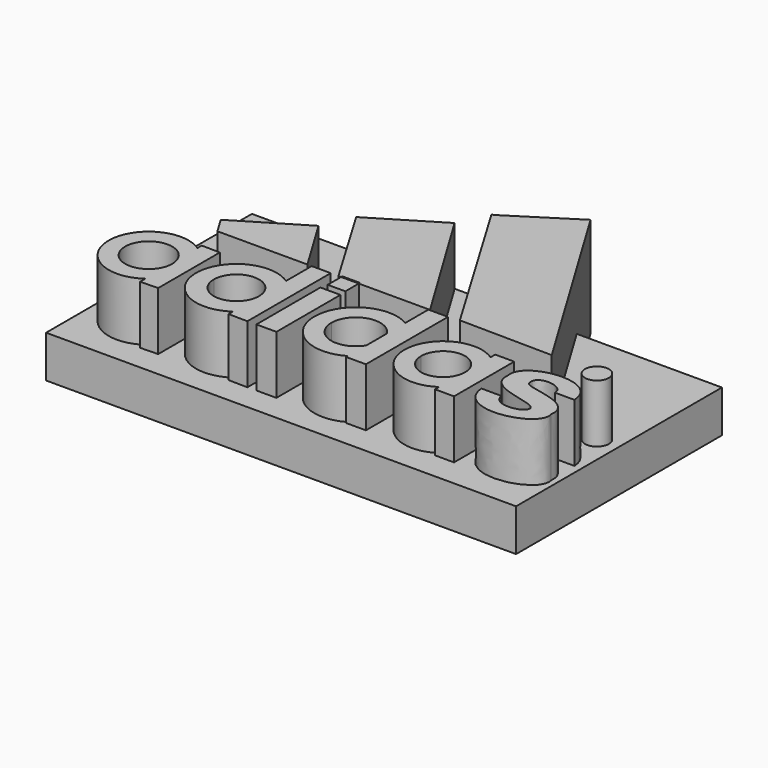
from build123d import *

# Parameters (mm, degrees)
F1_DEPTH = 25.4
F0_W     = 4.473424051
F0_H     = 4.2551801307
F0_R     = 3.0313387654
F2_W     = 119.0674714744
F2_H     = 65.1902165264
F3_DEPTH = 10.668


with BuildPart() as f1:
    # F0 (on Top) → F1 (new body)
    with BuildSketch(Plane.XY):
        with BuildLine():
            Line((-30.875317251, -13.699053923), (-31.0177251155, -13.6989738783))
            ThreePointArc((-31.0177251155, -13.6989738783), (-32.1733780362, -18.3901533475), (-35.3717890416, -22.0113224302))
            Line((-35.3717890416, -22.0113224302), (-35.3570654375, -23.6492129693))
            Line((-35.3570654375, -23.6492129693), (-30.875317251, -23.516735062))
            Line((-30.875317251, -23.516735062), (-30.875317251, -13.699053923))
        make_face()
        with BuildLine():
            Line((-35.4626304443, -11.9058976395), (-35.5222570014, -5.2728903326))
            ThreePointArc((-35.5222570014, -5.2728903326), (-51.2622202285, -13.7842750411), (-35.3717890416, -22.0113224302))
            Line((-35.3717890416, -22.0113224302), (-35.4314155987, -15.3783151233))
            ThreePointArc((-35.4314155987, -15.3783151233), (-47.0921857379, -13.7467890581), (-35.4626304443, -11.9058976395))
        make_face()
        with BuildLine():
            ThreePointArc((-31.0177251155, -13.6989738783), (-31.0177239162, -13.6961290609), (-31.0177235164, -13.6932842433))
            ThreePointArc((-31.0177235164, -13.6932842433), (-32.2146182443, -8.9185105437), (-35.5222570014, -5.2728903326))
            Line((-35.5222570014, -5.2728903326), (-35.4626304443, -11.9058976395))
            ThreePointArc((-35.4626304443, -11.9058976395), (-35.2570033033, -12.7890977121), (-35.1879264914, -13.6932842433))
            ThreePointArc((-35.1879264914, -13.6932842433), (-35.1879267264, -13.6949570657), (-35.1879274316, -13.6966298879))
            Line((-35.1879274316, -13.6966298879), (-31.0177251155, -13.6989738783))
        make_face()
        with BuildLine():
            ThreePointArc((-35.3717890416, -22.0113224302), (-32.1733780362, -18.3901533475), (-31.0177251155, -13.6989738783))
            Line((-31.0177251155, -13.6989738783), (-35.1879274316, -13.6966298879))
            ThreePointArc((-35.1879274316, -13.6966298879), (-35.2493527288, -14.5462059537), (-35.4314155987, -15.3783151233))
            Line((-35.4314155987, -15.3783151233), (-35.3717890416, -22.0113224302))
        make_face()
        with BuildLine():
            ThreePointArc((-35.5222570014, -5.2728903326), (-32.2146182443, -8.9185105437), (-31.0177235164, -13.6932842433))
            ThreePointArc((-31.0177235164, -13.6932842433), (-31.0177239162, -13.6961290609), (-31.0177251155, -13.6989738783))
            Line((-31.0177251155, -13.6989738783), (-30.875317251, -13.699053923))
            Line((-30.875317251, -13.699053923), (-30.875317251, -3.9986177819))
            Line((-30.875317251, -3.9986177819), (-35.5344340205, -3.9182882756))
            Line((-35.5344340205, -3.9182882756), (-35.5222570014, -5.2728903326))
        make_face()
    extrude(amount=F1_DEPTH)


with BuildPart() as f1b:
    # F0 (on Top) → F1, piece 2 (new body)
    with BuildSketch(Plane.XY):
        with BuildLine():
            Line((-24.5842620734, -13.702590004), (-29.0749657689, -13.7000658659))
            ThreePointArc((-29.0749657689, -13.7000658659), (-23.6185065316, -22.7980408662), (-13.0294393748, -22.1517025158))
            Line((-13.0294393748, -22.1517025158), (-13.0294393748, -13.7090847474))
            Line((-13.0294393748, -13.7090847474), (-13.1279232852, -13.7090293915))
            ThreePointArc((-13.1279232852, -13.7090293915), (-13.1277751463, -13.7328141294), (-13.1277257663, -13.7565992773))
            ThreePointArc((-13.1277257663, -13.7565992773), (-18.8831261638, -19.4849310841), (-24.5842620734, -13.702590004))
        make_face()
        with BuildLine():
            Line((-13.0294393748, -13.7090847474), (-13.0294393748, -22.1517025158))
            ThreePointArc((-13.0294393748, -22.1517025158), (-9.8015409773, -18.4939567995), (-8.6371203075, -13.7565992773))
            ThreePointArc((-8.6371203075, -13.7565992773), (-8.6371451281, -13.7340763487), (-8.6372195897, -13.7115535296))
            Line((-8.6372195897, -13.7115535296), (-13.0294393748, -13.7090847474))
        make_face()
        with BuildLine():
            ThreePointArc((-8.6371203075, -13.7565992773), (-9.8015409773, -18.4939567995), (-13.0294393748, -22.1517025158))
            Line((-13.0294393748, -22.1517025158), (-13.0294393748, -23.516735062))
            Line((-13.0294393748, -23.516735062), (-8.2128718495, -23.5997792333))
            Line((-8.2128718495, -23.5997792333), (-8.2128718495, -13.7117920473))
            Line((-8.2128718495, -13.7117920473), (-8.6372195897, -13.7115535296))
            ThreePointArc((-8.6372195897, -13.7115535296), (-8.6371451281, -13.7340763487), (-8.6371203075, -13.7565992773))
        make_face()
        with BuildLine():
            Line((-13.0294393748, 2.802018309), (-13.0294393748, -5.3614960387))
            ThreePointArc((-13.0294393748, -5.3614960387), (-9.8120042218, -8.9992967446), (-8.6372195897, -13.7115535296))
            Line((-8.6372195897, -13.7115535296), (-8.2128718495, -13.7117920473))
            Line((-8.2128718495, -13.7117920473), (-8.2128718495, 2.802018309))
            Line((-8.2128718495, 2.802018309), (-13.0294393748, 2.802018309))
        make_face()
        with BuildLine():
            ThreePointArc((-13.0294393748, -5.3614960387), (-23.5684147201, -4.6889496462), (-29.0749657689, -13.7000658659))
            Line((-29.0749657689, -13.7000658659), (-24.5842620734, -13.702590004))
            ThreePointArc((-24.5842620734, -13.702590004), (-18.8529014068, -8.0282047213), (-13.1279232852, -13.7090293915))
            Line((-13.1279232852, -13.7090293915), (-13.0294393748, -13.7090847474))
            Line((-13.0294393748, -13.7090847474), (-13.0294393748, -5.3614960387))
        make_face()
        with BuildLine():
            ThreePointArc((-8.6372195897, -13.7115535296), (-9.8120042218, -8.9992967446), (-13.0294393748, -5.3614960387))
            Line((-13.0294393748, -5.3614960387), (-13.0294393748, -13.7090847474))
            Line((-13.0294393748, -13.7090847474), (-8.6372195897, -13.7115535296))
        make_face()
    extrude(amount=F1_DEPTH)


with BuildPart() as f1c:
    # F0 (on Top) → F1, piece 3 (new body)
    with BuildSketch(Plane.XY):
        Polygon((-0.8936892846, -13.7159060189), (-5.964865908, -13.7130556082), (-5.964865908, -23.5547516495), (-0.8936892846, -23.5547516495), align=None)
        Polygon((-5.964865908, -3.284655977), (-5.964865908, -13.7130556082), (-0.8936892846, -13.7159060189), (-0.8936892846, -3.284655977), align=None)
    extrude(amount=F1_DEPTH)


with BuildPart() as f1d:
    # F0 (on Top) → F1, piece 4 (new body)
    with BuildSketch(Plane.XY):
        with Locations((-3.3306546975, 0.6502897595)):
            Rectangle(F0_W, F0_H)
    extrude(amount=F1_DEPTH)


with BuildPart() as f1e:
    # F0 (on Top) → F1, piece 5 (new body)
    with BuildSketch(Plane.XY):
        with BuildLine():
            ThreePointArc((16.6340731084, -4.6322608663), (6.1260749403, -4.6206090368), (0.8653004574, -13.7168947132))
            Line((0.8653004574, -13.7168947132), (5.1734727752, -13.7193162539))
            ThreePointArc((5.1734727752, -13.7193162539), (9.6719832069, -7.7634713647), (16.6340731084, -10.4538223921))
            Line((16.6340731084, -10.4538223921), (16.6340731084, -4.6322608663))
        make_face()
        with BuildLine():
            Line((5.1734727752, -13.7193162539), (0.8653004574, -13.7168947132))
            ThreePointArc((0.8653004574, -13.7168947132), (6.1209596036, -22.8220404146), (16.6340731084, -22.8133375248))
            Line((16.6340731084, -22.8133375248), (16.6340731084, -16.991775999))
            ThreePointArc((16.6340731084, -16.991775999), (9.6686338522, -19.6811716696), (5.1734727752, -13.7193162539))
        make_face()
        with BuildLine():
            Line((16.6340731084, -16.991775999), (16.6340731084, -22.8133375248))
            ThreePointArc((16.6340731084, -22.8133375248), (19.8267542843, -19.9542982046), (21.6118209064, -16.0580363962))
            Line((21.6118209064, -16.0580363962), (21.6118209064, -13.7285559329))
            Line((21.6118209064, -13.7285559329), (17.5665022046, -13.7262821372))
            ThreePointArc((17.5665022046, -13.7262821372), (17.328359964, -15.4241528333), (16.6340731084, -16.991775999))
        make_face()
        with BuildLine():
            ThreePointArc((21.6118209064, -11.3875619949), (19.8267542843, -7.4913001865), (16.6340731084, -4.6322608663))
            Line((16.6340731084, -4.6322608663), (16.6340731084, -10.4538223921))
            ThreePointArc((16.6340731084, -10.4538223921), (17.3288378777, -12.023120168), (17.5665031835, -13.7227991955))
            ThreePointArc((17.5665031835, -13.7227991955), (17.5665029388, -13.7245406664), (17.5665022046, -13.7262821372))
            Line((17.5665022046, -13.7262821372), (21.6118209064, -13.7285559329))
            Line((21.6118209064, -13.7285559329), (21.6118209064, -11.3875619949))
        make_face()
        with BuildLine():
            Line((16.6340731084, 2.6597355027), (16.6340731084, -4.6322608663))
            ThreePointArc((16.6340731084, -4.6322608663), (19.8267542843, -7.4913001865), (21.6118209064, -11.3875619949))
            Line((21.6118209064, -11.3875619949), (21.6118209064, 2.6597355027))
            Line((21.6118209064, 2.6597355027), (16.6340731084, 2.6597355027))
        make_face()
        with BuildLine():
            ThreePointArc((21.6118209064, -16.0580363962), (19.8267542843, -19.9542982046), (16.6340731084, -22.8133375248))
            Line((16.6340731084, -22.8133375248), (16.6340731084, -23.3473740518))
            Line((16.6340731084, -23.3473740518), (21.6118209064, -23.3473740518))
            Line((21.6118209064, -23.3473740518), (21.6118209064, -16.0580363962))
        make_face()
        with BuildLine():
            ThreePointArc((17.5665031835, -13.7227991955), (17.3288378777, -12.023120168), (16.6340731084, -10.4538223921))
            Line((16.6340731084, -10.4538223921), (16.6340731084, -13.7257580367))
            Line((16.6340731084, -13.7257580367), (17.5665022046, -13.7262821372))
            ThreePointArc((17.5665022046, -13.7262821372), (17.5665029388, -13.7245406664), (17.5665031835, -13.7227991955))
        make_face()
        with BuildLine():
            Line((16.6340731084, -13.7257580367), (16.6340731084, -16.991775999))
            ThreePointArc((16.6340731084, -16.991775999), (17.328359964, -15.4241528333), (17.5665022046, -13.7262821372))
            Line((17.5665022046, -13.7262821372), (16.6340731084, -13.7257580367))
        make_face()
    extrude(amount=F1_DEPTH)


with BuildPart() as f1f:
    # F0 (on Top) → F1, piece 6 (new body)
    with BuildSketch(Plane.XY):
        with BuildLine():
            ThreePointArc((39.0011928976, -5.6130481669), (28.9056141111, -5.0753107132), (23.6796114621, -13.7297181982))
            Line((23.6796114621, -13.7297181982), (27.9388281247, -13.7321122219))
            ThreePointArc((27.9388281247, -13.7321122219), (33.0750170948, -8.2080673953), (39.0011928976, -12.8745380892))
            Line((39.0011928976, -12.8745380892), (39.0011928976, -5.6130481669))
        make_face()
        with BuildLine():
            ThreePointArc((43.3309135445, -13.7407638168), (42.1772074459, -9.1382533724), (39.0011928976, -5.6130481669))
            Line((39.0011928976, -5.6130481669), (39.0011928976, -12.8745380892))
            ThreePointArc((39.0011928976, -12.8745380892), (39.0532828228, -13.3050796672), (39.0716968819, -13.7383697931))
            Line((39.0716968819, -13.7383697931), (43.3309135445, -13.7407638168))
        make_face()
        with BuildLine():
            Line((39.0011928976, -14.6412569927), (39.0011928976, -21.9027469149))
            ThreePointArc((39.0011928976, -21.9027469149), (42.1812319499, -18.3699790007), (43.3309284831, -13.7578975409))
            ThreePointArc((43.3309284831, -13.7578975409), (43.3309247484, -13.7493306756), (43.3309135445, -13.7407638168))
            Line((43.3309135445, -13.7407638168), (39.0716968819, -13.7383697931))
            ThreePointArc((39.0716968819, -13.7383697931), (39.0717225714, -13.748133652), (39.0717311346, -13.7578975409))
            ThreePointArc((39.0717311346, -13.7578975409), (39.0540685534, -14.2009831884), (39.0011928976, -14.6412569927))
        make_face()
        with BuildLine():
            Line((27.9388281247, -13.7321122219), (23.6796114621, -13.7297181982))
            ThreePointArc((23.6796114621, -13.7297181982), (28.8807319901, -22.4272572358), (39.0011928976, -21.9027469149))
            Line((39.0011928976, -21.9027469149), (39.0011928976, -14.6412569927))
            ThreePointArc((39.0011928976, -14.6412569927), (33.0493135242, -19.3056751987), (27.9388281247, -13.7321122219))
        make_face()
        with BuildLine():
            ThreePointArc((43.3309284831, -13.7578975409), (42.1812319499, -18.3699790007), (39.0011928976, -21.9027469149))
            Line((39.0011928976, -21.9027469149), (39.0011928976, -23.1816917658))
            Line((39.0011928976, -23.1816917658), (43.8059829175, -23.1816917658))
            Line((43.8059829175, -23.1816917658), (43.8059829175, -13.7410308441))
            Line((43.8059829175, -13.7410308441), (43.3309135445, -13.7407638168))
            ThreePointArc((43.3309135445, -13.7407638168), (43.3309247484, -13.7493306756), (43.3309284831, -13.7578975409))
        make_face()
        with BuildLine():
            Line((39.0011928976, -4.1282181628), (39.0011928976, -5.6130481669))
            ThreePointArc((39.0011928976, -5.6130481669), (42.1772074459, -9.1382533724), (43.3309135445, -13.7407638168))
            Line((43.3309135445, -13.7407638168), (43.8059829175, -13.7410308441))
            Line((43.8059829175, -13.7410308441), (43.8059829175, -4.1282181628))
            Line((43.8059829175, -4.1282181628), (39.0011928976, -4.1282181628))
        make_face()
    extrude(amount=F1_DEPTH)


with BuildPart() as f1g:
    # F0 (on Top) → F1, piece 7 (new body)
    with BuildSketch(Plane.XY):
        with BuildLine():
            Line((62.5903514688, -13.7515891761), (48.7155546756, -13.7437904199))
            add(Edge.make_bspline(
                [(48.7155546756, -13.7437904199), (52.2539287746, -15.9984560349), (58.83547103, -15.8805297751), (58.8002084507, -17.9962712332)],
                knots=[4.2459284241, 4.2459284241, 4.2459284241, 4.2459284241, 14.8523937837, 14.8523937837, 14.8523937837, 14.8523937837], degree=3))
            add(Edge.make_bspline(
                [(58.8002084507, -17.9962712332), (58.6354872896, -20.2663625582), (51.3803586364, -21.1450262918), (51.0723768715, -17.1813930312)],
                knots=[0, 0, 0, 0, 7.7706761224, 7.7706761224, 7.7706761224, 7.7706761224], degree=3))
            Line((51.0723768715, -17.1813930312), (45.9241895689, -17.1813930312))
            add(Edge.make_bspline(
                [(45.9241895689, -17.1813930312), (46.9962880015, -27.6155285537), (65.3172880411, -23.4463252127), (63.6168662162, -17.1813930312)],
                knots=[0, 0, 0, 0, 17.6926766473, 17.6926766473, 17.6926766473, 17.6926766473], degree=3))
            add(Edge.make_bspline(
                [(63.6168662162, -17.1813930312), (63.8051585342, -15.7024980497), (63.378604204, -14.5970641726), (62.5903514688, -13.7515891761)],
                knots=[0, 0, 0, 0, 3.0019762863, 3.0019762863, 3.0019762863, 3.0019762863], degree=3))
        make_face()
        with BuildLine():
            add(Edge.make_bspline(
                [(46.5488844162, -9.5999231873), (46.370299762, -11.5584239085), (47.2990900332, -12.8412136898), (48.7155546756, -13.7437904199)],
                knots=[0, 0, 0, 0, 4.2459284241, 4.2459284241, 4.2459284241, 4.2459284241], degree=3))
            Line((48.7155546756, -13.7437904199), (62.5903514688, -13.7515891761))
            add(Edge.make_bspline(
                [(62.5903514688, -13.7515891761), (59.6420466387, -10.5892556947), (51.6336267896, -11.0637141312), (51.8114231527, -9.2358039692)],
                knots=[3.0019762863, 3.0019762863, 3.0019762863, 3.0019762863, 14.2302800909, 14.2302800909, 14.2302800909, 14.2302800909], degree=3))
            add(Edge.make_bspline(
                [(51.8114231527, -9.2358039692), (51.0035604239, -5.6494511664), (58.5198700428, -6.1337624211), (58.4024265409, -9.480868699)],
                knots=[0, 0, 0, 0, 6.5955577766, 6.5955577766, 6.5955577766, 6.5955577766], degree=3))
            Line((58.4024265409, -9.480868699), (63.3141994476, -9.480868699))
            Line((63.3141994476, -9.480868699), (63.3141994476, -9.2306856532))
            add(Edge.make_bspline(
                [(63.3141994476, -9.2306856532), (62.7086202266, -0.0776128052), (45.1093754484, -2.6099037836), (46.5488844162, -9.5999231873)],
                knots=[0, 0, 0, 0, 16.7693805628, 16.7693805628, 16.7693805628, 16.7693805628], degree=3))
        make_face()
    extrude(amount=F1_DEPTH)


with BuildPart() as f1h:
    # F0 (on Top) → F1, piece 8 (new body)
    with BuildSketch(Plane.XY):
        Polygon((-2.4973251857, 34.8738506436), (-19.2859862, 24.7018970549), (-6.2500843778, 2.7778798249), (-5.567366723, 2.7778798249), (-5.567366723, 3.161806846), (-1.093942672, 3.161806846), (-1.093942672, 2.7778798249), (16.9577691704, 2.7778798249), align=None)
    extrude(amount=F1_DEPTH)


with BuildPart() as f1i:
    # F0 (on Top) → F1, piece 9 (new body)
    with BuildSketch(Plane.XY):
        Polygon((-22.7670799941, 17.1054359525), (-39.4844524562, 7.0657432079), (-36.9369983673, 2.802018309), (-14.1305355355, 2.802018309), align=None)
    extrude(amount=F1_DEPTH)


with BuildPart() as f1j:
    # F0 (on Top) → F1, piece 10 (new body)
    with BuildSketch(Plane.XY):
        with Locations((59.7664937377, 2.1260231733)):
            Circle(F0_R)
        with BuildLine():
            Line((59.1067112982, 0.3426910553), (58.5428886116, 0.3488712537))
            Line((58.5428886116, 0.3488712537), (58.5428886116, 3.4539313658))
            add(Edge.make_bspline(
                [(58.5428886116, 3.4539313658), (58.7973896157, 3.347181031), (61.3144424979, 3.9975331091), (61.0991145337, 2.5561019436)],
                knots=[0.2582213588, 0.2582213588, 0.2582213588, 0.2582213588, 2.7303052016, 2.7303052016, 2.7303052016, 2.7303052016], degree=3))
            add(Edge.make_bspline(
                [(61.0991145337, 2.5561019436), (61.059884727, 2.2975115571), (60.7758825016, 1.8209142523), (60.3246130049, 1.7162117874)],
                knots=[0, 0, 0, 0, 1.1424833007, 1.1424833007, 1.1424833007, 1.1424833007], degree=3))
            Line((60.3246130049, 1.7162117874), (61.3395310938, 0.3629892599))
            Line((61.3395310938, 0.3629892599), (60.6223233044, 0.3629892599))
            Line((60.6223233044, 0.3629892599), (59.8442181945, 1.5673573362))
            Line((59.8442181945, 1.5673573362), (59.1067112982, 1.5673573362))
            Line((59.1067112982, 1.5673573362), (59.1067112982, 0.3426910553))
        make_face(mode=Mode.SUBTRACT)
        with BuildLine():
            Line((58.5428886116, 3.5154118668), (58.5428886116, 3.4539313658))
            add(Edge.make_bspline(
                [(58.5428886116, 3.5154118668), (58.5144071665, 3.4844931829), (58.5163047255, 3.4650819651), (58.5428886116, 3.4539313658)],
                knots=[0, 0, 0, 0, 0.2582213588, 0.2582213588, 0.2582213588, 0.2582213588], degree=3))
        make_face(mode=Mode.SUBTRACT)
        with BuildLine():
            Line((58.5428886116, 3.4539313658), (58.5428886116, 0.3488712537))
            Line((58.5428886116, 0.3488712537), (59.1067112982, 0.3426910553))
            Line((59.1067112982, 0.3426910553), (59.1067112982, 1.5673573362))
            Line((59.1067112982, 1.5673573362), (59.8442181945, 1.5673573362))
            Line((59.8442181945, 1.5673573362), (60.6223233044, 0.3629892599))
            Line((60.6223233044, 0.3629892599), (61.3395310938, 0.3629892599))
            Line((61.3395310938, 0.3629892599), (60.3246130049, 1.7162117874))
            add(Edge.make_bspline(
                [(61.0991145337, 2.5561019436), (61.059884727, 2.2975115571), (60.7758825016, 1.8209142523), (60.3246130049, 1.7162117874)],
                knots=[0, 0, 0, 0, 1.1424833007, 1.1424833007, 1.1424833007, 1.1424833007], degree=3))
            add(Edge.make_bspline(
                [(58.5428886116, 3.4539313658), (58.7973896157, 3.347181031), (61.3144424979, 3.9975331091), (61.0991145337, 2.5561019436)],
                knots=[0.2582213588, 0.2582213588, 0.2582213588, 0.2582213588, 2.7303052016, 2.7303052016, 2.7303052016, 2.7303052016], degree=3))
        make_face()
        with BuildLine():
            Line((59.1757521033, 2.2975115571), (59.1757521033, 2.9670482036))
            Line((59.1757521033, 2.9670482036), (60.2137260139, 2.9750945978))
            add(Edge.make_bspline(
                [(60.2137260139, 2.2975115571), (60.4953467846, 2.3555287626), (60.5999454856, 2.8383072931), (60.2137260139, 2.9750945978)],
                knots=[0, 0, 0, 0, 0.6775830407, 0.6775830407, 0.6775830407, 0.6775830407], degree=3))
            Line((60.2137260139, 2.2975115571), (59.1757521033, 2.2975115571))
        make_face(mode=Mode.SUBTRACT)
        with BuildLine():
            Line((60.2137260139, 2.9750945978), (59.1757521033, 2.9670482036))
            Line((59.1757521033, 2.9670482036), (59.1757521033, 2.2975115571))
            Line((59.1757521033, 2.2975115571), (60.2137260139, 2.2975115571))
            add(Edge.make_bspline(
                [(60.2137260139, 2.2975115571), (60.4953467846, 2.3555287626), (60.5999454856, 2.8383072931), (60.2137260139, 2.9750945978)],
                knots=[0, 0, 0, 0, 0.6775830407, 0.6775830407, 0.6775830407, 0.6775830407], degree=3))
        make_face()
    extrude(amount=F1_DEPTH)


with BuildPart() as f1k:
    # F0 (on Top) → F1, piece 11 (new body)
    with BuildSketch(Plane.XY):
        Polygon((1.354191103, 42.3793680966), (0.8604074246, 42.3793680966), (24.3645310402, 2.9753935523), (47.8686578572, 2.6791228447), (17.6490694284, 52.7488365769), align=None)
    extrude(amount=F1_DEPTH)


with BuildPart() as f3:
    # F2 (on Top) → F3 (new body)
    with BuildSketch(Plane.XY):
        with Locations((5.6085754186, 2.3892270401)):
            Rectangle(F2_W, F2_H)
    extrude(amount=F3_DEPTH)


solid = Compound([f1.part, f1b.part, f1c.part, f1d.part, f1e.part, f1f.part, f1g.part, f1h.part, f1i.part, f1j.part, f1k.part, f3.part])
